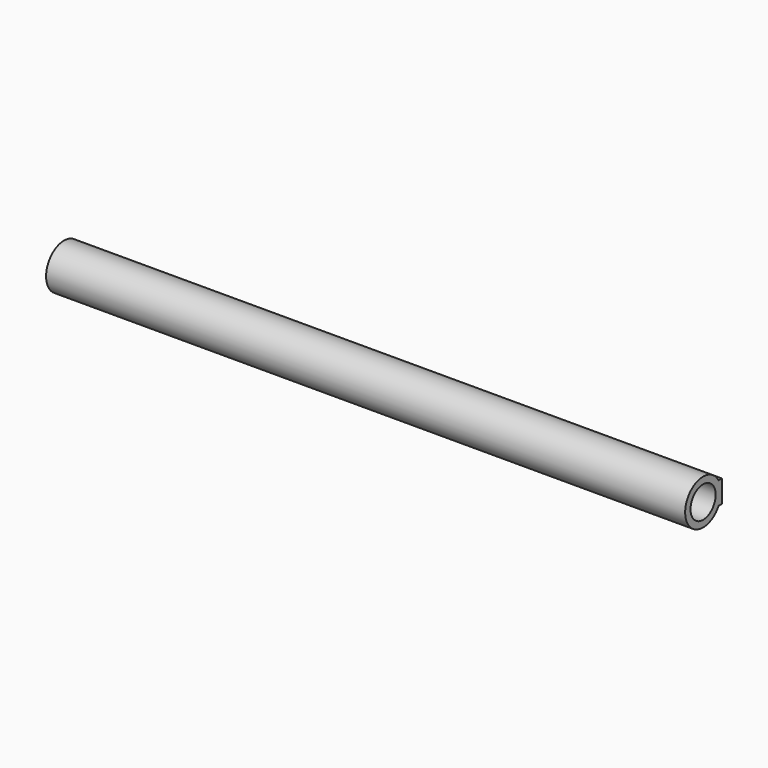
from build123d import *

# Parameters (mm, degrees)
F0_R     = 14
F1_DEPTH = 570


with BuildPart() as f1:
    # F0 (on Right) → F1 (new body)
    with BuildSketch(Plane.YZ):
        with BuildLine():
            Line((21, 10), (17.320508, 10))
            ThreePointArc((17.320508, 10), (-20, 0), (17.320508, -10))
            Line((17.320508, -10), (21, -10))
            Line((21, -10), (21, 10))
        make_face()
        Circle(F0_R, mode=Mode.SUBTRACT)
    extrude(amount=F1_DEPTH)


solid = f1.part
